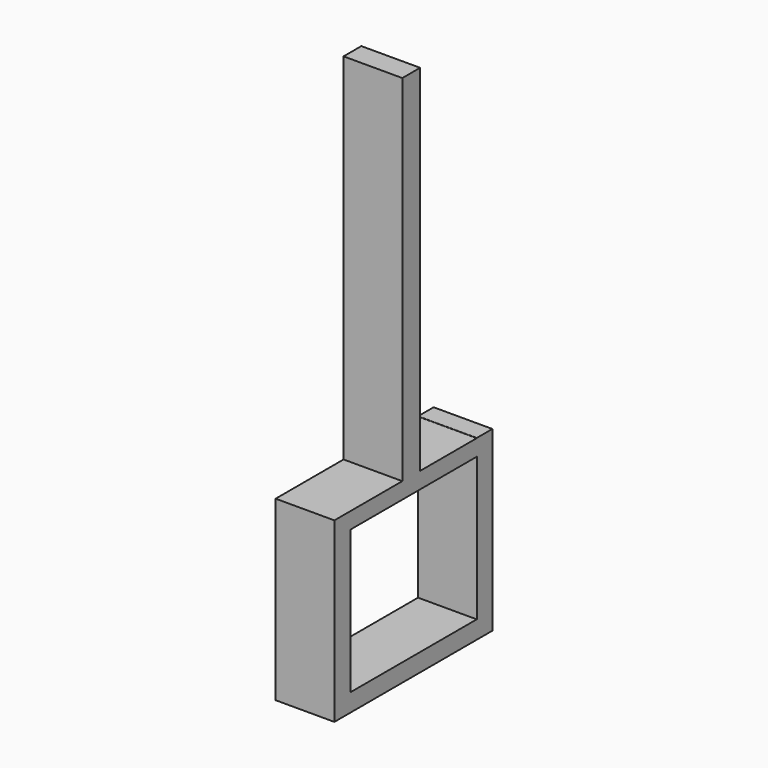
from build123d import *

# Parameters (mm, degrees)
F0_W     = 16.551677
F0_H     = 5.64926
F1_DEPTH = 50
F2_W     = 16.551677
F2_H     = 4.591736
F3_DEPTH = 50
F4_W     = 16.551677
F4_H     = 5.058468
F5_DEPTH = 50
F6_W     = 16.551677
F6_H     = 5.499007
F7_DEPTH = 45
F8_W     = 16.551677
F8_H     = 6.267717
F9_DEPTH = 100


with BuildPart() as f1:
    # F0 (on Top) → F1 (new body)
    with BuildSketch(Plane.XY):
        with Locations((-8.275838, 2.82463)):
            Rectangle(F0_W, F0_H)
    extrude(amount=F1_DEPTH)

    # F2 (on face) → F3 (join)
    with BuildSketch(Plane(origin=(0, 5.64926, 0), x_dir=(-1, 0, 0), z_dir=(0, 1, 0))):
        with Locations((8.275838, 47.704132)):
            Rectangle(F2_W, F2_H)
    extrude(amount=F3_DEPTH)

    # F4 (on face) → F5 (join)
    with BuildSketch(Plane(origin=(0, 5.64926, 0), x_dir=(-1, 0, 0), z_dir=(0, 1, 0))):
        with Locations((8.275838, 2.529234)):
            Rectangle(F4_W, F4_H)
    extrude(amount=F5_DEPTH)

    # F6 (on face) → F7 (join)
    with BuildSketch(Plane.XY.offset(5.058468)):
        with Locations((-8.275838, 52.899756)):
            Rectangle(F6_W, F6_H)
    extrude(amount=F7_DEPTH)

    # F8 (on face) → F9 (join)
    with BuildSketch(Plane.XY.offset(50)):
        with Locations((-8.275838, 27.062013)):
            Rectangle(F8_W, F8_H)
    extrude(amount=F9_DEPTH)


solid = f1.part
